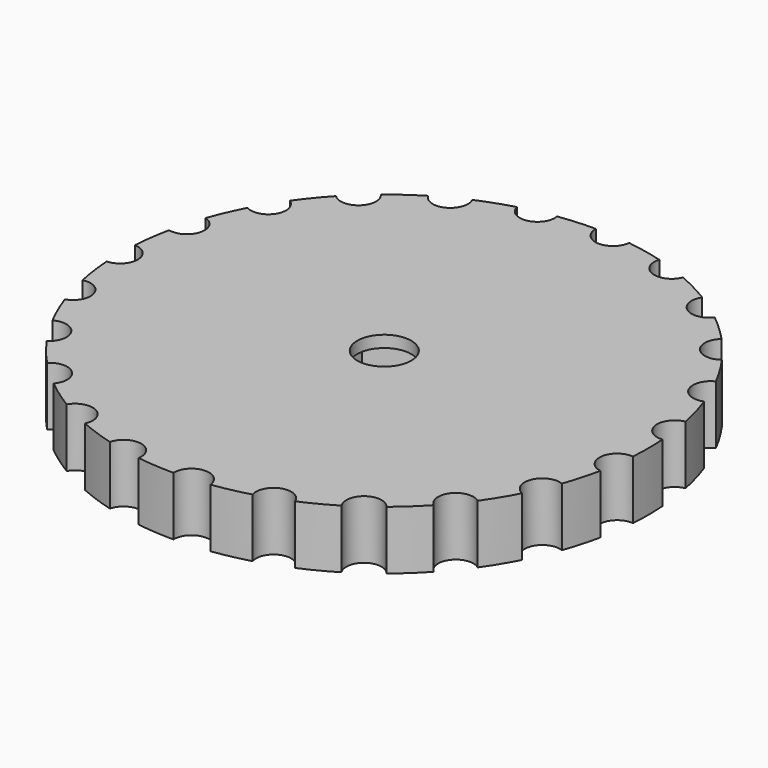
from build123d import *

# Parameters (mm, degrees)
F0_R     = 22.5
F1_DEPTH = 5
F2_R     = 1.5
F3_DEPTH = 25
F4_R     = 5
F4_R_2   = 2.3
F5_DEPTH = 1


with BuildPart() as f1:
    # F0 (on Top) → F1 (new body)
    with BuildSketch(Plane.XY):
        Circle(F0_R)
        Polygon((-3.55, -2.049593), (-3.55, 2.049593), (0, 4.099187), (3.55, 2.049593), (3.55, -2.049593), (0, -4.099187), align=None, mode=Mode.SUBTRACT)
    extrude(amount=F1_DEPTH)

    # F2 (on Top) → F3 (cut)
    with BuildSketch(Plane.XY):
        with Locations((-22.5, 0)):
            Circle(F2_R)
        with Locations((-21.665639, -6.070427)):
            Circle(F2_R)
        with Locations((-19.224437, -11.690639)):
            Circle(F2_R)
        with Locations((-15.357446, -16.443809)):
            Circle(F2_R)
        with Locations((-10.351463, -19.977417)):
            Circle(F2_R)
        with Locations((-4.57776, -22.029392)):
            Circle(F2_R)
        with Locations((1.535454, -22.447547)):
            Circle(F2_R)
        with Locations((7.534791, -21.200871)):
            Circle(F2_R)
        with Locations((12.975307, -18.381823)):
            Circle(F2_R)
        with Locations((17.453504, -14.199479)):
            Circle(F2_R)
        with Locations((20.637254, -8.964025)):
            Circle(F2_R)
        with Locations((22.290434, -3.06375)):
            Circle(F2_R)
        with Locations((22.290434, 3.06375)):
            Circle(F2_R)
        with Locations((20.637254, 8.964025)):
            Circle(F2_R)
        with Locations((17.453504, 14.199479)):
            Circle(F2_R)
        with Locations((12.975307, 18.381823)):
            Circle(F2_R)
        with Locations((7.534791, 21.200871)):
            Circle(F2_R)
        with Locations((1.535454, 22.447547)):
            Circle(F2_R)
        with Locations((-4.57776, 22.029392)):
            Circle(F2_R)
        with Locations((-10.351463, 19.977417)):
            Circle(F2_R)
        with Locations((-15.357446, 16.443809)):
            Circle(F2_R)
        with Locations((-19.224437, 11.690639)):
            Circle(F2_R)
        with Locations((-21.665639, 6.070427)):
            Circle(F2_R)
    extrude(amount=F3_DEPTH, mode=Mode.SUBTRACT)

    # F4 (on face) → F5 (join)
    with BuildSketch(Plane.XY.offset(5)):
        Circle(F4_R)
        Circle(F4_R_2, mode=Mode.SUBTRACT)
    extrude(amount=-F5_DEPTH)


solid = f1.part
